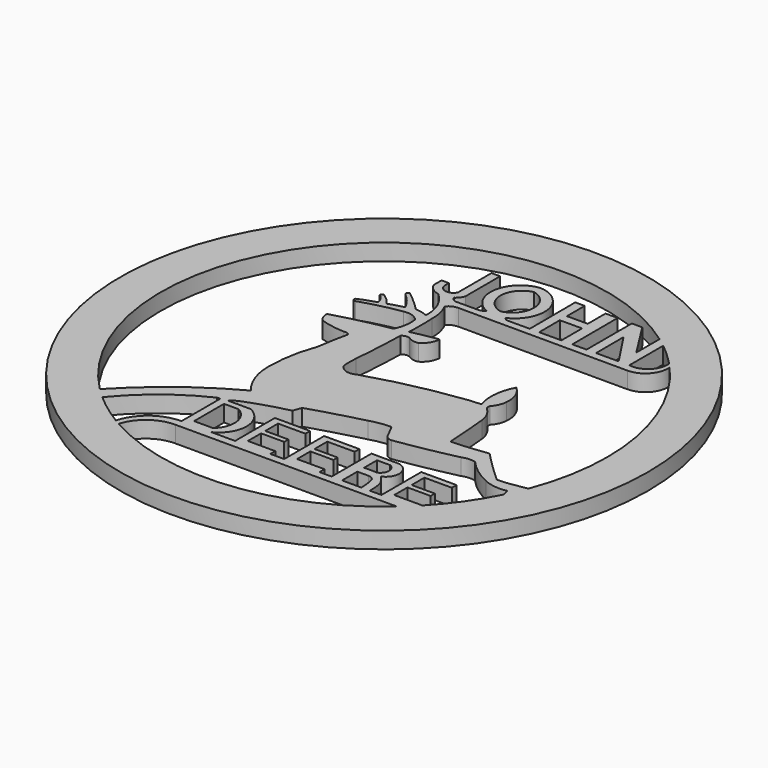
from build123d import *

# Parameters (mm, degrees)
F0_R     = 101.6
F1_DEPTH = 6.35


with BuildPart() as f1:
    # F0 (on Top) → F1 (new body)
    with BuildSketch(Plane.XY):
        with Locations((101.6, 101.6)):
            Circle(F0_R)
        with BuildLine():
            ThreePointArc((165.6915610103, 158.8846071426), (181.907579042, 132.2585576411), (187.5607724967, 101.6))
            ThreePointArc((187.5607724967, 101.6), (186.1168591623, 85.9106747894), (181.8336269996, 70.7484278081))
            ThreePointArc((181.8336269996, 70.7484278081), (180.2288059985, 66.8614727504), (178.4358115347, 63.0576534962))
            ThreePointArc((178.4358115347, 63.0576534962), (171.7754850171, 51.9547010198), (163.5231301188, 41.9780211289))
            ThreePointArc((163.5231301188, 41.9780211289), (162.5042296735, 40.9375798694), (161.4678500429, 39.9145483971))
            ThreePointArc((161.4678500429, 39.9145483971), (159.8778561289, 38.4102390158), (158.2500761559, 36.9469004629))
            ThreePointArc((158.2500761559, 36.9469004629), (110.4028598519, 16.0911462675), (59.3101476663, 26.7613549173))
            ThreePointArc((59.3101476663, 26.7613549173), (58.2975916472, 27.3426378124), (57.2930239968, 27.9376196035))
            ThreePointArc((57.2930239968, 27.9376196035), (50.7547633744, 32.2889884599), (44.6409434228, 37.218944696))
            ThreePointArc((44.6409434228, 37.218944696), (42.6758673112, 39.0124533546), (40.7672348705, 40.8659148836))
            ThreePointArc((40.7672348705, 40.8659148836), (36.1428803527, 157.3191160707), (151.8400781548, 171.3509064831))
            ThreePointArc((151.8400781548, 171.3509064831), (153.6196935181, 170.0339527903), (155.3648034766, 168.6716058802))
            ThreePointArc((155.3648034766, 168.6716058802), (159.8566890207, 164.8092761592), (164.0718894439, 160.6467394318))
            ThreePointArc((164.0718894439, 160.6467394318), (164.8878584349, 159.7713106518), (165.6915610103, 158.8846071426))
        make_face(mode=Mode.SUBTRACT)
        with BuildLine():
            ThreePointArc((178.4358115347, 63.0576534962), (180.2288059985, 66.8614727504), (181.8336269996, 70.7484278081))
            Line((181.8336269996, 70.7484278081), (176.7214238644, 69.8804855347))
            ThreePointArc((176.7214238644, 69.8804855347), (173.7746671597, 69.4878001373), (170.8074063063, 69.306306541))
            ThreePointArc((170.8074063063, 69.306306541), (164.5134300092, 75.1813976006), (158.4625989199, 81.3066139817))
            ThreePointArc((158.4625989199, 81.3066139817), (151.4460615459, 80.4638268234), (144.3952620029, 79.9860060215))
            ThreePointArc((144.3952620029, 79.9860060215), (143.8249549364, 88.4857832368), (143.0854946375, 96.9725176692))
            ThreePointArc((143.0854946375, 96.9725176692), (142.0338381023, 100.4018038712), (139.8863792419, 103.2748520374))
            ThreePointArc((139.8863792419, 103.2748520374), (139.2309659033, 104.3006288583), (139.2939388752, 105.5162847042))
            ThreePointArc((139.2939388752, 105.5162847042), (140.8486337121, 107.9255796741), (141.5269970894, 110.7115447521))
            ThreePointArc((141.5269970894, 110.7115447521), (140.8201098401, 115.7006133822), (137.9267722368, 119.8260337114))
            ThreePointArc((137.9267722368, 119.8260337114), (135.6690746618, 112.4549365352), (136.4829391241, 104.7889143229))
            ThreePointArc((136.4829391241, 104.7889143229), (134.2287797822, 104.6417800571), (131.9750696421, 104.4879183173))
            ThreePointArc((131.9750696421, 104.4879183173), (113.3307077999, 101.3405397858), (95.0613766909, 96.4671671391))
            ThreePointArc((95.0613766909, 96.4671671391), (91.3052039781, 96.1360449477), (88.498942554, 98.6546501517))
            ThreePointArc((88.498942554, 98.6546501517), (88.3928963262, 101.5712842345), (88.498942554, 104.4879183173))
            ThreePointArc((88.498942554, 104.4879183173), (89.2152072123, 114.4795447637), (89.6332338452, 124.4880855083))
            ThreePointArc((89.6332338452, 124.4880855083), (91.0960966514, 125.1972558744), (92.7120894194, 125.0198930502))
            ThreePointArc((92.7120894194, 125.0198930502), (94.6417394419, 124.1266291275), (96.7680364847, 124.1084486246))
            ThreePointArc((96.7680364847, 124.1084486246), (99.2858113252, 126.5738793463), (100.3226861358, 129.9417316914))
            ThreePointArc((100.3226861358, 129.9417316914), (95.1759307617, 129.0658097166), (90.0688841939, 127.9821097851))
            ThreePointArc((90.0688841939, 127.9821097851), (90.2098454591, 133.4963738918), (90.0688841939, 139.0106379986))
            ThreePointArc((90.0688841939, 139.0106379986), (89.6417785103, 143.4591951626), (88.0884129049, 147.6495573669))
            ThreePointArc((88.0884129049, 147.6495573669), (86.573652011, 150.0317002084), (84.6913382411, 152.1355062723))
            Line((84.6913382411, 152.1355062723), (88.82615444, 152.1499313087))
            ThreePointArc((88.82615444, 152.1499313087), (87.5424242059, 152.6524278205), (86.7724541711, 153.7959365455))
            ThreePointArc((86.7724541711, 153.7959365455), (88.0540410111, 155.056881792), (88.8573527336, 156.665340066))
            Line((88.8573527336, 156.665340066), (88.8573527336, 173.3762919903))
            Line((88.8573527336, 173.3762919903), (85.5296254158, 173.3762919903))
            Line((85.5296254158, 173.3762919903), (85.5296254158, 157.1717262268))
            ThreePointArc((85.5296254158, 157.1717262268), (82.2574704882, 155.5138363834), (79.5975998044, 158.0398380756))
            Line((79.5975998044, 158.0398380756), (79.5975998044, 160.282433033))
            Line((79.5975998044, 160.282433033), (76.7762735486, 160.282433033))
            Line((76.7762735486, 160.282433033), (76.7762735486, 156.4483195543))
            ThreePointArc((76.7762735486, 156.4483195543), (78.7120289932, 154.0067968574), (81.5521945795, 152.7255312083))
            ThreePointArc((81.5521945795, 152.7255312083), (85.9152573489, 146.8177432025), (87.2889757156, 139.6030932665))
            ThreePointArc((87.2889757156, 139.6030932665), (84.9615827161, 140.4464364515), (82.503862679, 140.742406249))
            ThreePointArc((82.503862679, 140.742406249), (78.6971257047, 144.3852934514), (74.6512040496, 147.7605551481))
            ThreePointArc((74.6512040496, 147.7605551481), (73.7882656262, 147.3412916152), (73.9362388849, 146.3933736086))
            ThreePointArc((73.9362388849, 146.3933736086), (76.8986409829, 143.3852733024), (79.1770741343, 139.8309469223))
            ThreePointArc((79.1770741343, 139.8309469223), (76.1922565519, 139.0424144152), (73.2526555657, 138.099193573))
            ThreePointArc((73.2526555657, 138.099193573), (71.5087000963, 140.2744670149), (69.3334266543, 142.0184224844))
            ThreePointArc((69.3334266543, 142.0184224844), (68.4553202419, 142.0499285581), (68.2396814227, 141.1981284618))
            ThreePointArc((68.2396814227, 141.1981284618), (69.9129089639, 139.5070987438), (70.7461759448, 137.2788846493))
            ThreePointArc((70.7461759448, 137.2788846493), (67.4106093709, 136.1575610977), (64.1381666064, 134.8635405302))
            ThreePointArc((64.1381666064, 134.8635405302), (64.0772340484, 133.8209355965), (65.0952011347, 133.5875242949))
            ThreePointArc((65.0952011347, 133.5875242949), (72.7172177136, 135.7658923775), (80.498687923, 137.2788846493))
            ThreePointArc((80.498687923, 137.2788846493), (83.7645448523, 137.1755165781), (86.5142568946, 135.410413146))
            ThreePointArc((86.5142568946, 135.410413146), (86.5191042603, 130.9501147486), (85.1470828056, 126.7060786486))
            ThreePointArc((85.1470828056, 126.7060786486), (74.2816932481, 124.5038003646), (63.5457336903, 121.7386797071))
            ThreePointArc((63.5457336903, 121.7386797071), (63.8822328343, 119.5013981482), (65.0952011347, 117.5915896893))
            ThreePointArc((65.0952011347, 117.5915896893), (69.8116621877, 116.3977487251), (74.6512040496, 115.8986538649))
            ThreePointArc((74.6512040496, 115.8986538649), (75.8516883727, 115.9092257407), (76.8330693245, 115.2177304029))
            ThreePointArc((76.8330693245, 115.2177304029), (75.6454240258, 109.2639598249), (74.6512040496, 103.2748520374))
            ThreePointArc((74.6512040496, 103.2748520374), (72.0644395766, 93.8413439086), (71.206137538, 84.0973332524))
            ThreePointArc((71.206137538, 84.0973332524), (72.6011890083, 75.777482447), (76.8330693245, 68.4797242284))
            ThreePointArc((76.8330693245, 68.4797242284), (57.6680443429, 56.1514424563), (40.7672348705, 40.8659148836))
            ThreePointArc((40.7672348705, 40.8659148836), (42.6758673112, 39.0124533546), (44.6409434228, 37.218944696))
            ThreePointArc((44.6409434228, 37.218944696), (57.0352885138, 49.3946471815), (71.7965138205, 58.5583663334))
            Line((71.7965138205, 58.5583663334), (72.9623359688, 58.5872112561))
            Line((72.9623359688, 58.5872112561), (72.9623359688, 39.9145483971))
            Line((72.9623359688, 39.9145483971), (84.42693868, 39.9145483971))
            ThreePointArc((84.42693868, 39.9145483971), (90.3992650967, 49.5221246276), (84.2999145389, 59.049565345))
            Line((84.2999145389, 59.049565345), (75.4001736641, 59.049565345))
            ThreePointArc((75.4001736641, 59.049565345), (76.6385231459, 59.9033971872), (77.8632784283, 60.7766169487))
            ThreePointArc((77.8632784283, 60.7766169487), (86.2064998466, 63.7283860846), (94.7440812385, 66.0590487896))
            Line((94.7440812385, 66.0590487896), (95.9222987294, 69.306306541))
            ThreePointArc((95.9222987294, 69.306306541), (106.1851874711, 72.3815035904), (116.5352612734, 75.1491189003))
            ThreePointArc((116.5352612734, 75.1491189003), (120.53368403, 76.0981079478), (124.631151557, 76.4123126864))
            ThreePointArc((124.631151557, 76.4123126864), (125.7647916625, 74.2226936809), (126.9278675318, 72.0485672355))
            ThreePointArc((126.9278675318, 72.0485672355), (128.0245608546, 70.2844776655), (129.9834251404, 69.5933923125))
            ThreePointArc((129.9834251404, 69.5933923125), (141.6395036379, 71.5604004955), (153.2088816166, 73.9858448505))
            ThreePointArc((153.2088816166, 73.9858448505), (155.8098312206, 74.5747731196), (158.4625989199, 74.3016451597))
            ThreePointArc((158.4625989199, 74.3016451597), (163.2321913882, 69.9447161507), (168.7977910042, 66.6650906205))
            ThreePointArc((168.7977910042, 66.6650906205), (173.1949499439, 65.442671854), (177.7549535036, 65.6315684319))
            Line((177.7549535036, 65.6315684319), (178.4358115347, 63.0576534962))
        make_face()
        with BuildLine():
            Line((75.9169310331, 42.2835983336), (75.9169310331, 56.6954426467))
            Line((75.9169310331, 56.6954426467), (81.5438628197, 56.6954426467))
            ThreePointArc((81.5438628197, 56.6954426467), (86.1480427171, 49.9252860965), (83.2089781761, 42.2835983336))
            Line((83.2089781761, 42.2835983336), (75.9169310331, 42.2835983336))
        make_face(mode=Mode.SUBTRACT)
        with BuildLine():
            ThreePointArc((103.1389683485, 175.019338727), (93.1268892382, 165.4390504567), (99.6569818806, 153.2168762829))
            ThreePointArc((99.6569818806, 153.2168762829), (101.4035253961, 152.5796320944), (103.2301113009, 152.2331088781))
            ThreePointArc((103.2301113009, 152.2331088781), (105.2120615957, 152.5682305488), (107.1046127609, 153.2454923831))
            ThreePointArc((107.1046127609, 153.2454923831), (113.5643541158, 165.670049489), (103.1389683485, 175.019338727))
        make_face()
        with BuildLine():
            ThreePointArc((103.2301113009, 155.6054651737), (96.7858474851, 163.6717915535), (103.2301113009, 171.7381179333))
            ThreePointArc((103.2301113009, 171.7381179333), (109.6436505777, 163.6717915535), (103.2301113009, 155.6054651737))
        make_face(mode=Mode.SUBTRACT)
        with BuildLine():
            ThreePointArc((158.2500761559, 36.9469004629), (159.8778561289, 38.4102390158), (161.4678500429, 39.9145483971))
            Line((161.4678500429, 39.9145483971), (149.9427109957, 39.9145483971))
            Line((149.9427109957, 39.9145483971), (145.454660058, 39.9145483971))
            Line((145.454660058, 39.9145483971), (142.2392725945, 39.9145483971))
            Line((142.2392725945, 39.9145483971), (134.7749680281, 39.9145483971))
            Line((134.7749680281, 39.9145483971), (130.7557374239, 39.9145483971))
            Line((130.7557374239, 39.9145483971), (126.0846182704, 39.9145483971))
            Line((126.0846182704, 39.9145483971), (112.5041991472, 39.9145483971))
            Line((112.5041991472, 39.9145483971), (107.1820035577, 39.9145483971))
            Line((107.1820035577, 39.9145483971), (93.6015844345, 39.9145483971))
            Line((93.6015844345, 39.9145483971), (84.42693868, 39.9145483971))
            Line((84.42693868, 39.9145483971), (72.9623359688, 39.9145483971))
            Line((72.9623359688, 39.9145483971), (72.9623359688, 36.9469004629))
            Line((72.9623359688, 36.9469004629), (158.2500761559, 36.9469004629))
        make_face()
        with BuildLine():
            ThreePointArc((157.0486874789, 149.3339671631), (163.4939823178, 152.1872969235), (165.6915610103, 158.8846071426))
            ThreePointArc((165.6915610103, 158.8846071426), (164.8878584349, 159.7713106518), (164.0718894439, 160.6467394318))
            ThreePointArc((164.0718894439, 160.6467394318), (161.7710697465, 154.3517953347), (155.3648034766, 152.3820631336))
            Line((155.3648034766, 152.3820631336), (151.2630056873, 152.3677532878))
            Line((151.2630056873, 152.3677532878), (142.6046623146, 152.3375471283))
            Line((142.6046623146, 152.3375471283), (138.9589160681, 152.3248282988))
            Line((138.9589160681, 152.3248282988), (133.4748121329, 152.305696034))
            Line((133.4748121329, 152.305696034), (129.2973521031, 152.2911222271))
            Line((129.2973521031, 152.2911222271), (120.765445377, 152.2613571641))
            Line((120.765445377, 152.2613571641), (117.1752187443, 152.2488320247))
            Line((117.1752187443, 152.2488320247), (108.4303726837, 152.2183240852))
            Line((108.4303726837, 152.2183240852), (98.1580986757, 152.1824874437))
            Line((98.1580986757, 152.1824874437), (88.82615444, 152.1499313087))
            Line((88.82615444, 152.1499313087), (84.6913382411, 152.1355062723))
            ThreePointArc((84.6913382411, 152.1355062723), (86.573652011, 150.0317002084), (88.0884129049, 147.6495573669))
            ThreePointArc((88.0884129049, 147.6495573669), (89.825431022, 148.9766633266), (91.9604477546, 149.445860214))
            Line((91.9604477546, 149.445860214), (157.0486874789, 149.3339671631))
        make_face()
        with BuildLine():
            Line((155.3648034766, 152.3820631336), (155.3648034766, 168.6716058802))
            ThreePointArc((155.3648034766, 168.6716058802), (153.6196935181, 170.0339527903), (151.8400781548, 171.3509064831))
            Line((151.8400781548, 171.3509064831), (151.8400781548, 160.1626896413))
            Line((151.8400781548, 160.1626896413), (142.9692953825, 174.1078943014))
            Line((142.9692953825, 174.1078943014), (138.9589160681, 174.1078943014))
            Line((138.9589160681, 174.1078943014), (138.9589160681, 152.3248282988))
            Line((138.9589160681, 152.3248282988), (142.6046623146, 152.3375471283))
            Line((142.6046623146, 152.3375471283), (142.5582837704, 165.6315694926))
            Line((142.5582837704, 165.6315694926), (151.2630056873, 152.3677532878))
            Line((151.2630056873, 152.3677532878), (155.3648034766, 152.3820631336))
        make_face()
        with BuildLine():
            Line((142.2392725945, 39.9145483971), (145.454660058, 39.9145483971))
            ThreePointArc((145.454660058, 39.9145483971), (145.3397489401, 42.9535472745), (144.7082310915, 45.9284260869))
            ThreePointArc((144.7082310915, 45.9284260869), (143.6311315384, 47.6835555324), (142.2392725945, 49.2012351751))
            ThreePointArc((142.2392725945, 49.2012351751), (145.4699975952, 54.4348365553), (141.4354294538, 59.0770803392))
            Line((141.4354294538, 59.0770803392), (130.7557374239, 59.0770803392))
            Line((130.7557374239, 59.0770803392), (130.7557374239, 39.9145483971))
            Line((130.7557374239, 39.9145483971), (134.7749680281, 39.9145483971))
            Line((134.7749680281, 39.9145483971), (134.7749680281, 47.2490340471))
            Line((134.7749680281, 47.2490340471), (139.0238851309, 47.2490340471))
            ThreePointArc((139.0238851309, 47.2490340471), (140.3986170508, 46.8972651951), (141.4354294538, 45.9284260869))
            ThreePointArc((141.4354294538, 45.9284260869), (141.9839836315, 42.9410868451), (142.2392725945, 39.9145483971))
        make_face()
        with BuildLine():
            Line((138.9090418816, 50.5218394101), (134.7749680281, 50.5218394101))
            Line((134.7749680281, 50.5218394101), (134.7749680281, 56.7229539156))
            Line((134.7749680281, 56.7229539156), (139.8277282715, 56.7229539156))
            ThreePointArc((139.8277282715, 56.7229539156), (141.9150306002, 53.5936877131), (139.8277282715, 50.4644215107))
            Line((139.8277282715, 50.4644215107), (138.9090418816, 50.5218394101))
        make_face(mode=Mode.SUBTRACT)
        Polygon((129.2973521031, 152.2911222271), (133.4748121329, 152.305696034), (133.3983345886, 174.2273454375), (128.7496303396, 174.211127612), (128.7496303396, 165.6593915979), (120.7598200294, 165.631517734), (120.7298885455, 174.211127612), (117.0986435939, 174.1984593729), (117.1752187443, 152.2488320247), (120.765445377, 152.2613571641), (120.7306708993, 162.2291707843), (129.2973521031, 162.2590571642), align=None)
        Polygon((112.5041991472, 39.9145483971), (126.0846182704, 39.9145483971), (126.0846182704, 42.338822037), (115.5197620392, 42.338822037), (115.5197620392, 48.7121865153), (124.419502914, 48.7121865153), (124.419502914, 50.7218055427), (115.5197620392, 50.7218055427), (115.5197620392, 56.8654984236), (126.0846182704, 56.8654984236), (126.0846182704, 59.114497155), (112.5041991472, 59.114497155), align=None)
        Polygon((93.6015844345, 59.049565345), (93.6015844345, 39.9145483971), (107.1820035577, 39.9145483971), (107.1820035577, 42.2738902271), (96.6171473265, 42.2738902271), (96.6171473265, 48.6472547054), (105.5168882012, 48.6472547054), (105.5168882012, 50.6568737328), (96.6171473265, 50.6568737328), (96.6171473265, 56.8005666137), (107.1820035577, 56.8005666137), (107.1820035577, 59.049565345), align=None)
        with BuildLine():
            ThreePointArc((161.4678500429, 39.9145483971), (162.5042296735, 40.9375798694), (163.5231301188, 41.9780211289))
            Line((163.5231301188, 41.9780211289), (163.5231301188, 42.2738902271))
            Line((163.5231301188, 42.2738902271), (152.9582738876, 42.2738902271))
            Line((152.9582738876, 42.2738902271), (152.9582738876, 48.6472547054))
            Line((152.9582738876, 48.6472547054), (161.8580147624, 48.6472547054))
            Line((161.8580147624, 48.6472547054), (161.8580147624, 50.6568737328))
            Line((161.8580147624, 50.6568737328), (152.9582738876, 50.6568737328))
            Line((152.9582738876, 50.6568737328), (152.9582738876, 56.8005666137))
            Line((152.9582738876, 56.8005666137), (163.5231301188, 56.8005666137))
            Line((163.5231301188, 56.8005666137), (163.5231301188, 59.049565345))
            Line((163.5231301188, 59.049565345), (149.9427109957, 59.049565345))
            Line((149.9427109957, 59.049565345), (149.9427109957, 39.9145483971))
            Line((149.9427109957, 39.9145483971), (161.4678500429, 39.9145483971))
        make_face()
        with BuildLine():
            ThreePointArc((57.2930239968, 27.9376196035), (58.2975916472, 27.3426378124), (59.3101476663, 26.7613549173))
            ThreePointArc((59.3101476663, 26.7613549173), (64.4457700014, 34.119950316), (72.9623359688, 36.9469004629))
            Line((72.9623359688, 36.9469004629), (72.9623359688, 39.9145483971))
            ThreePointArc((72.9623359688, 39.9145483971), (63.1011220349, 36.5774121715), (57.2930239968, 27.9376196035))
        make_face()
        with BuildLine():
            ThreePointArc((99.6569818806, 153.2168762829), (98.9433555588, 152.6477836596), (98.1580986757, 152.1824874437))
            Line((98.1580986757, 152.1824874437), (108.4303726837, 152.2183240852))
            ThreePointArc((108.4303726837, 152.2183240852), (107.6713141195, 152.6077710919), (107.1046127609, 153.2454923831))
            ThreePointArc((107.1046127609, 153.2454923831), (105.2120615957, 152.5682305488), (103.2301113009, 152.2331088781))
            ThreePointArc((103.2301113009, 152.2331088781), (101.4035253961, 152.5796320944), (99.6569818806, 153.2168762829))
        make_face()
    extrude(amount=F1_DEPTH)


solid = f1.part
